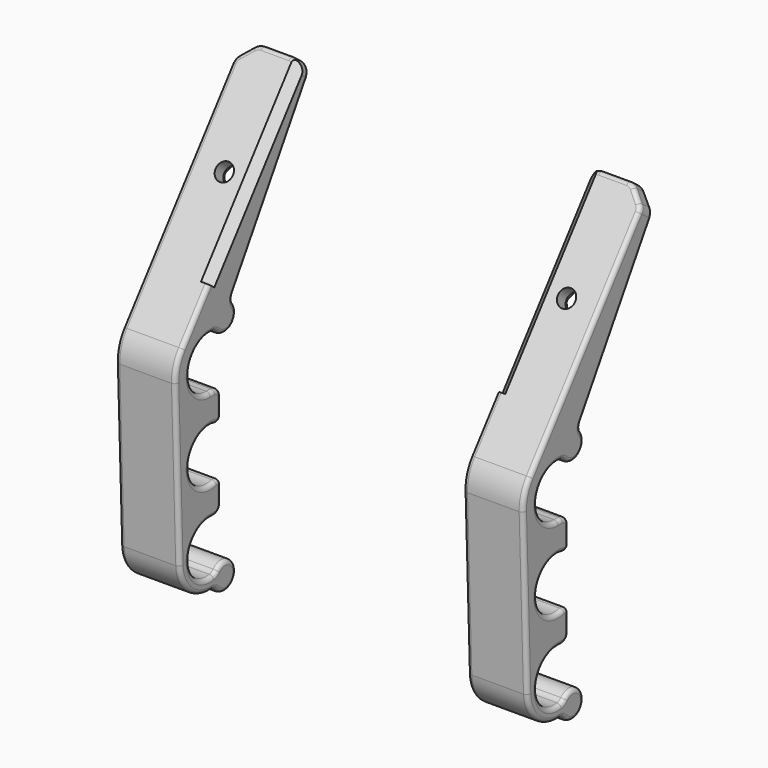
from build123d import *

# Parameters (mm, degrees)
F1_DEPTH = 11
F2_R     = 1.6
F3_DEPTH = 2.5
F5_DEPTH = 47.4965496003
F7_DEPTH = 35
F8_SIZE  = 3
F9_R     = 2
F10_R    = 0.75


with BuildPart() as f1:
    # F0 (on Right) → F1 (new body)
    with BuildSketch(Plane.YZ):
        with BuildLine():
            ThreePointArc((0, -4.8), (-4.787453387, 0.3468285851), (0.6918440353, 4.7498791386))
            ThreePointArc((0.6918440353, 4.7498791386), (1.1805218424, 4.5896059165), (1.5863392339, 4.2736854365))
            ThreePointArc((1.5863392339, 4.2736854365), (5.0249547096, 4.0226070839), (5.4443286757, 7.4447763091))
            ThreePointArc((5.4443286757, 7.4447763091), (5.149994373, 8.2707087695), (5.3676555433, 9.120073665))
            Line((5.3676555433, 9.120073665), (23.4274976039, 38.7447074581))
            Line((23.4274976039, 38.7447074581), (21.0474375831, 40.5709917452))
            Line((21.0474375831, 40.5709917452), (-6.3468267223, 4.8700914321))
            ThreePointArc((-6.3468267223, 4.8700914321), (-7.6172530767, 2.4448835485), (-7.9955543203, -0.2666666667))
            Line((-7.9955543203, -0.2666666667), (-6.9961100303, -30.2333333333))
            ThreePointArc((-6.9961100303, -30.2333333333), (-4.7629243185, -35.1297711388), (0.2854628138, -36.9941769338))
            ThreePointArc((0.2854628138, -36.9941769338), (0.9598612403, -37.124005602), (1.5057083855, -37.5408024529))
            ThreePointArc((1.5057083855, -37.5408024529), (5.9367389998, -36.015604646), (1.5863392339, -34.2736854365))
            ThreePointArc((1.5863392339, -34.2736854365), (1.1805218424, -34.5896059165), (0.6918440353, -34.7498791386))
            ThreePointArc((0.6918440353, -34.7498791386), (-4.787453387, -30.3468285851), (0, -25.2))
            Line((0, -25.2), (1, -25.2))
            ThreePointArc((1, -25.2), (2.0606601718, -24.7606601718), (2.5, -23.7))
            Line((2.5, -23.7), (2.5, -20.6026779311))
            ThreePointArc((2.5, -20.6026779311), (2.1088428822, -19.8093870987), (1.2413793103, -19.6366989775))
            ThreePointArc((1.2413793103, -19.6366989775), (-4.8, -15), (1.2413793103, -10.3633010225))
            ThreePointArc((1.2413793103, -10.3633010225), (2.1088428822, -10.1906129013), (2.5, -9.3973220689))
            Line((2.5, -9.3973220689), (2.5, -6.3))
            ThreePointArc((2.5, -6.3), (2.0606601718, -5.2393398282), (1, -4.8))
            Line((1, -4.8), (0, -4.8))
        make_face()
    extrude(amount=F1_DEPTH)

    # F2 (on face) → F3 (cut)
    with BuildSketch(Plane(origin=(0, -6.3468267223, 4.8700914321), x_dir=(1, 0, 0), z_dir=(0, -0.7933533403, 0.608761429))):
        with Locations((6, 26)):
            Circle(F2_R)
    extrude(amount=-F3_DEPTH, mode=Mode.SUBTRACT)

    # F4 (on face) → F5 (cut, through all)
    with BuildSketch(Plane(origin=(0, -4.3634433716, 3.3481878595), x_dir=(1, 0, 0), z_dir=(0, -0.7933533403, 0.608761429))):
        with BuildLine():
            Line((4.8164319482, 23.2), (7.1835680518, 23.2))
            ThreePointArc((7.1835680518, 23.2), (7.5585680518, 23.3004809472), (7.8330871047, 23.575))
            Line((7.8330871047, 23.575), (9.0166551565, 25.625))
            ThreePointArc((9.0166551565, 25.625), (9.1171361037, 26), (9.0166551565, 26.375))
            Line((9.0166551565, 26.375), (7.8330871047, 28.425))
            ThreePointArc((7.8330871047, 28.425), (7.5585680518, 28.6995190528), (7.1835680518, 28.8))
            Line((7.1835680518, 28.8), (4.8164319482, 28.8))
            ThreePointArc((4.8164319482, 28.8), (4.4414319482, 28.6995190528), (4.1669128953, 28.425))
            Line((4.1669128953, 28.425), (2.9833448435, 26.375))
            ThreePointArc((2.9833448435, 26.375), (2.8828638963, 26), (2.9833448435, 25.625))
            Line((2.9833448435, 25.625), (4.1669128953, 23.575))
            ThreePointArc((4.1669128953, 23.575), (4.4414319482, 23.3004809472), (4.8164319482, 23.2))
        make_face()
    extrude(amount=-F5_DEPTH, mode=Mode.SUBTRACT)

    # F6 (on face) → F7 (cut)
    with BuildSketch(Plane(origin=(0, 27.3942643054, 35.7009003131), x_dir=(1, 0, 0), z_dir=(0, 0.608761429, 0.7933533403))):
        Polygon((9.5, -8), (11, -8), (11, -6.5), align=None)
    extrude(amount=-F7_DEPTH, mode=Mode.SUBTRACT)

    # F8
    f8_edges = [f1.edges().sort_by_distance(p)[0] for p in [
        (0, 22.237468, 39.65785),
    ]]
    chamfer(f8_edges, length=F8_SIZE)

    # F9
    f9_edges = [f1.edges().sort_by_distance(p)[0] for p in [
        (0, 20.539045, 37.179678),
        (3, 22.237468, 39.65785),
        (11, 22.832483, 39.201279),
    ]]
    fillet(f9_edges, radius=F9_R)

    # F10
    f10_edges = [f1.edges().sort_by_distance(p)[0] for p in [
        (0, -7.495832, -15.25),
    ]]
    fillet(f10_edges, radius=F10_R)


with BuildPart() as f11_1:
    # F11: instance of F1
    add(f1.part.mirror(Plane.YZ))


with BuildPart() as f11_1_1:
    # F12: moved
    add(f11_1.part.moved(Location((75, 0, 0))))


solid = Compound([f1.part, f11_1_1.part])
